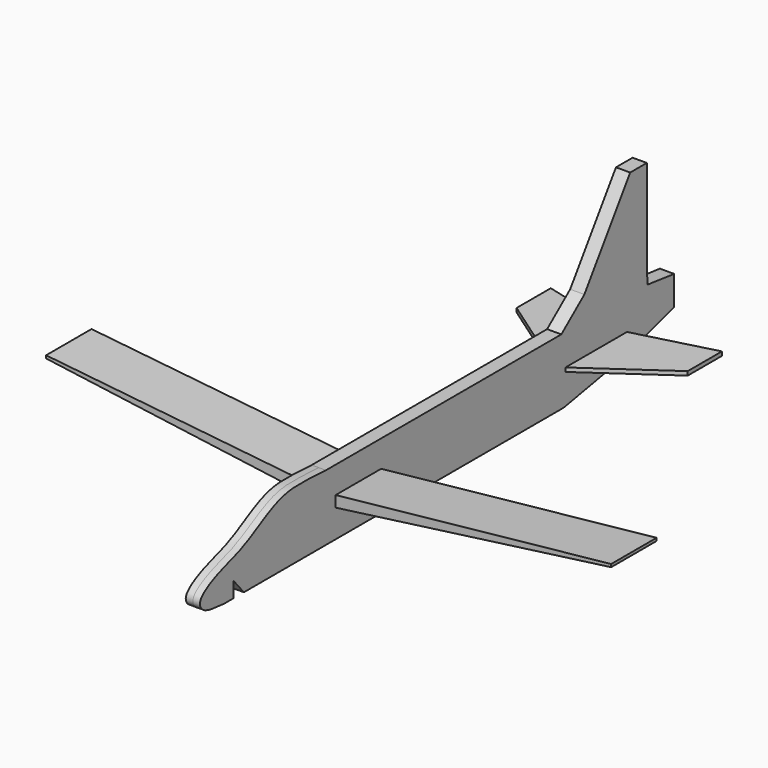
from build123d import *

# Parameters (mm, degrees)
F2_DEPTH = 0.889
F3_DEPTH = 3.175
F5_DEPTH = 25.4


with BuildPart() as f2:
    # F1 (on Top) → F2 (new body, symmetric)
    with BuildSketch(Plane.XY):
        Polygon((-38.2477380335, 152.8535187244), (0, 126.189917326), (38.2477380335, 152.8535187244), (38.2477380335, 171.9708293676), (0, 161.9090884924), (-38.2477380335, 171.9708293676), align=None)
    extrude(amount=F2_DEPTH, both=True)


with BuildPart() as f3:
    # F0 (on Right) → F3 (new body, symmetric)
    with BuildSketch(Plane.YZ):
        with BuildLine():
            Line((-51.3041354716, -14.5549571389), (78.9766012458, -14.5549571389))
            Line((78.9766012458, -14.5549571389), (127.4245007662, -14.5549571389))
            Line((127.4245007662, -14.5549571389), (161.1497849226, -8.35061213))
            Line((161.1497849226, -8.35061213), (189.1288757324, -0.1413154632))
            Line((189.1288757324, -0.1413154632), (189.1288757324, 13.0097735673))
            Line((189.1288757324, 13.0097735673), (174.1836199154, 14.8343300374))
            Line((174.1836199154, 14.8343300374), (173.8448575089, 25.2935626863))
            Line((173.8448575089, 25.2935626863), (173.8448575089, 62.8894009946))
            Line((173.8448575089, 62.8894009946), (164.5530762505, 62.8894009946))
            Line((164.5530762505, 62.8894009946), (138.9559194396, 25.2935626863))
            Line((138.9559194396, 25.2935626863), (126.0708575701, 14.8343300374))
            Line((126.0708575701, 14.8343300374), (76.2989670038, 14.8343300374))
            Line((76.2989670038, 14.8343300374), (-5.4806010848, 14.8343300374))
            add(Edge.make_bspline(
                [(-62.3397679301, -14.5549571389), (-65.7666039501, -14.0289106666), (-73.6639599321, -14.2560279061), (-77.9986398959, -7.1506636672), (-63.9936508601, -0.0084478731), (-50.8689666047, 2.7138254599), (-30.1701448446, 17.1092950293), (-16.709095113, 15.3311499793), (-5.4806010848, 14.8343300374)],
                knots=[0, 0, 0, 0, 0.1463983586, 0.2448918915, 0.4020221466, 0.5709034149, 0.7785778924, 1, 1, 1, 1], degree=3))
            Line((-62.3397679301, -14.5549571389), (-57.240087539, -14.5549571389))
            Line((-57.240087539, -14.5549571389), (-57.240087539, -7.5237769634))
            Line((-57.240087539, -7.5237769634), (-51.3041354716, -14.5549571389))
        make_face()
    extrude(amount=F3_DEPTH, both=True)

    # F4 (on Front) → F5 (join)
    with BuildSketch(Plane.XZ):
        Polygon((0, 2.54), (-126.3102396993, 15.7582959231), (-126.3102396993, 14.4882959231), (0, -2.54), align=None)
    extrude(amount=-F5_DEPTH)


with BuildPart() as f6_1:
    # F6: instance of F3
    add(f3.part.mirror(Plane.YZ))


solid = Compound([f2.part, f3.part, f6_1.part])
